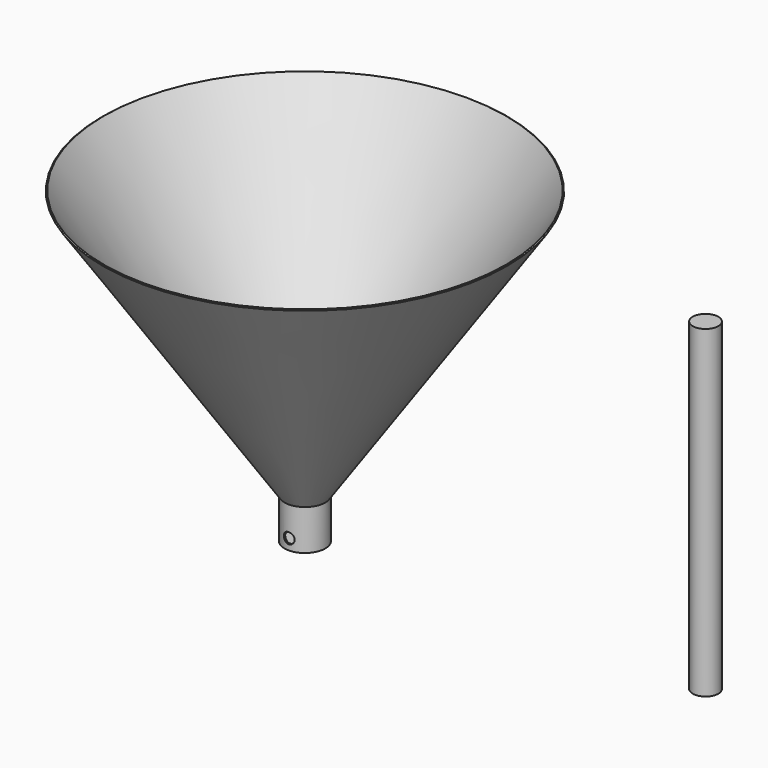
from build123d import *

# Parameters (mm, degrees)
F0_R           = 6.35
F1_DEPTH       = 0.635
F2_R           = 6.35
F2_R_2         = 5.715
F3_DEPTH       = 12.7
F4_R           = 2.2225
F5_DEPTH       = 6.351
F5_DEPTH_BACK  = 6.351
F6_R           = 6.0325
F7_DEPTH       = 152.4
F12_R          = 2.54
F13_DEPTH      = 95.3055038166
F13_DEPTH_BACK = 95.3055038166
F9_R           = 9.580209983
F14_DEPTH      = 0.635


with BuildPart() as f1:
    # F0 (on Top) → F1 (new body)
    with BuildSketch(Plane.XY):
        Circle(F0_R)
    extrude(amount=F1_DEPTH)

    # F2 (on face) → F3 (join)
    with BuildSketch(Plane.XY.offset(0.635)):
        Circle(F2_R)
        Circle(F2_R_2, mode=Mode.SUBTRACT)
    extrude(amount=F3_DEPTH)

    # F4 (on Front) → F5 (cut, two sides)
    with BuildSketch(Plane.XZ) as f5_sk:
        with Locations((0, 3.175)):
            Circle(F4_R)
    extrude(amount=-F5_DEPTH, mode=Mode.SUBTRACT)
    extrude(f5_sk.sketch, amount=F5_DEPTH_BACK, mode=Mode.SUBTRACT)


with BuildPart() as f7:
    # F6 (on Top) → F7 (new body)
    with BuildSketch(Plane.XY):
        with Locations((34.0619625497, 0)):
            Circle(F6_R)
    extrude(amount=F7_DEPTH)


with BuildPart() as f10:
    # F8 (on Front) → F10 (revolve)
    with BuildSketch(Plane.XZ):
        Polygon((-145.792722702, 19.05), (-145.792722702, 0), (-145.0247018212, 0), (-145.0247018212, 19.05), (-59.3004079876, 145.054386617), (-59.8254262651, 145.4115711746), align=None)
    revolve(axis=Axis((-154.6049118042, 0, 0), (0, 0, 1)))

    # F12 (on Front) → F13 (cut, two sides)
    with BuildSketch(Plane.XZ) as f13_sk:
        with Locations((-154.6098, 5.08)):
            Circle(F12_R)
    extrude(amount=-F13_DEPTH, mode=Mode.SUBTRACT)
    extrude(f13_sk.sketch, amount=F13_DEPTH_BACK, mode=Mode.SUBTRACT)

    # F9 (on Top) → F14 (join)
    with BuildSketch(Plane.XY):
        with Locations((-154.6049118042, 0)):
            Circle(F9_R)
    extrude(amount=F14_DEPTH)


solid = Compound([f7.part, f10.part])
